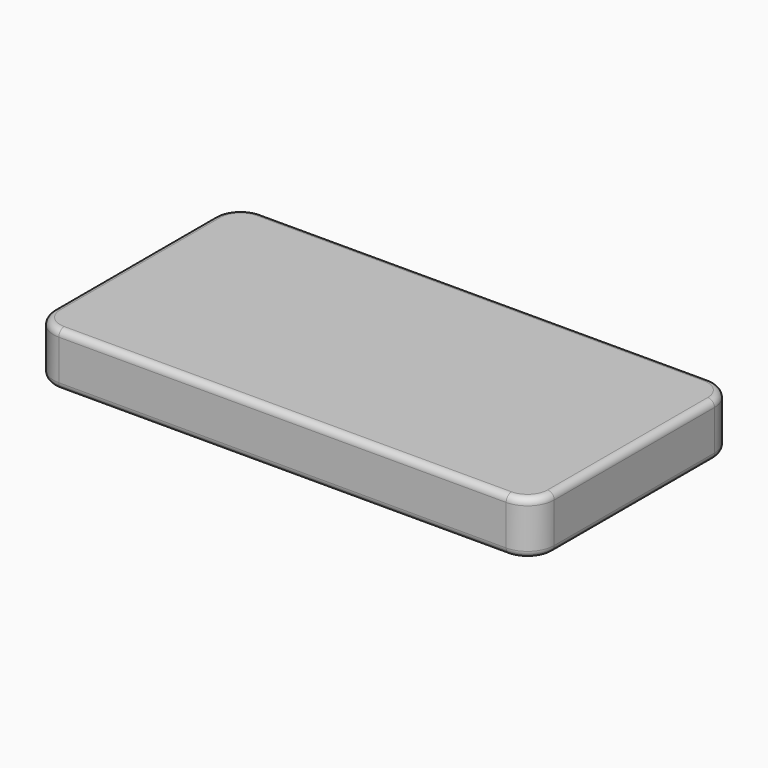
from build123d import *

# Parameters (mm, degrees)
F0_W     = 1905
F0_H     = 965.2
F1_DEPTH = 203.2
F2_R     = 101.6
F3_R     = 25.4
F4_R     = 25.4


with BuildPart() as f1:
    # F0 (on Top) → F1 (new body)
    with BuildSketch(Plane.XY):
        with Locations((952.5, 482.6)):
            Rectangle(F0_W, F0_H)
    extrude(amount=F1_DEPTH)

    # F2
    f2_edges = [f1.edges().sort_by_distance(p)[0] for p in [
        (0, 0, 101.6),
        (0, 965.2, 101.6),
        (1905, 0, 101.6),
        (1905, 965.2, 101.6),
    ]]
    fillet(f2_edges, radius=F2_R)

    # F3
    f3_edges = [f1.edges().sort_by_distance(p)[0] for p in [
        (0, 482.6, 203.2),
        (29.757951, 935.442049, 203.2),
        (29.757951, 29.757951, 203.2),
        (952.5, 965.2, 203.2),
        (952.5, 0, 203.2),
        (1875.242049, 935.442049, 203.2),
        (1875.242049, 29.757951, 203.2),
        (1905, 482.6, 203.2),
    ]]
    fillet(f3_edges, radius=F3_R)

    # F4
    f4_edges = [f1.edges().sort_by_distance(p)[0] for p in [
        (0, 482.6, 0),
        (29.757951, 935.442049, 0),
        (29.757951, 29.757951, 0),
        (952.5, 965.2, 0),
        (952.5, 0, 0),
        (1875.242049, 935.442049, 0),
        (1875.242049, 29.757951, 0),
        (1905, 482.6, 0),
    ]]
    fillet(f4_edges, radius=F4_R)


solid = f1.part
